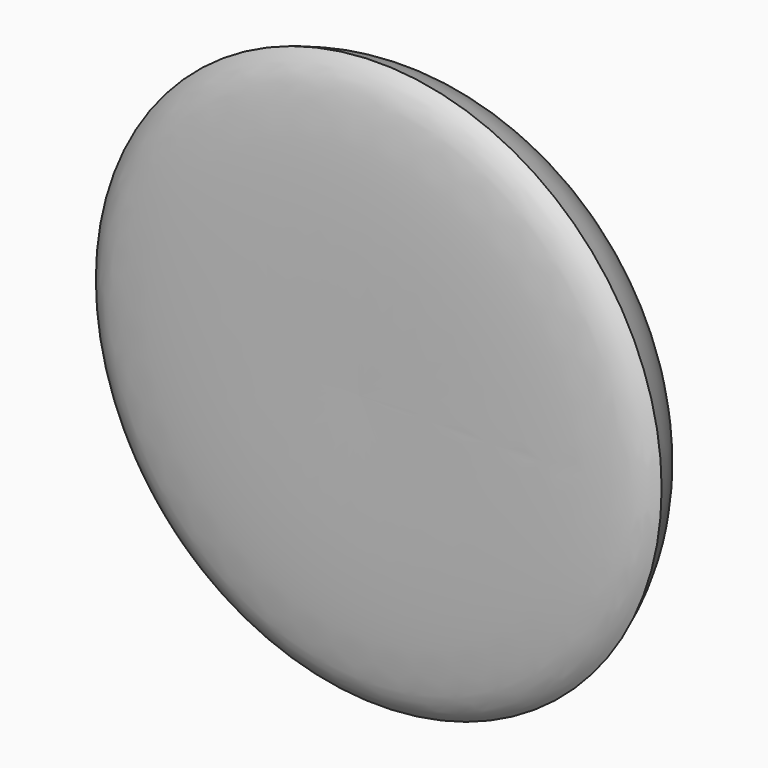
from build123d import *


with BuildPart() as f1:
    # F0 (on Top) → F1 (revolve)
    with BuildSketch(Plane.XY):
        with BuildLine():
            Line((15.7268978655, 31.1336107552), (13.6900357902, 31.1336107552))
            add(Edge.make_bspline(
                [(13.6900357902, 31.1336107552), (17.0608899521, 28.6581278912), (18.4755196748, 24.8073490245), (19.8025538123, 22.0620742536), (19.8939658685, 21.8758244185)],
                knots=[0.4105273485, 0.4105273485, 0.4105273485, 0.4105273485, 0.7637283298, 0.7901702617, 0.7901702617, 0.7901702617, 0.7901702617], degree=3))
            Line((19.8939658685, 21.8758244185), (20.9858976305, 22.5443914533))
            Line((20.9858976305, 22.5443914533), (15.7268978655, 31.1336107552))
        make_face()
        with BuildLine():
            add(Edge.make_bspline(
                [(0, 34.9186398089), (3.0782377239, 35.3925153745), (9.7720743609, 34.0108774401), (13.6900357902, 31.1336107552)],
                knots=[0, 0, 0, 0, 0.4105273485, 0.4105273485, 0.4105273485, 0.4105273485], degree=3))
            Line((0, 34.9186398089), (0, -4.9908086658))
            add(Edge.make_bspline(
                [(57.1451485157, 0), (56.1033313978, -1.0390530249), (51.8189445284, -5.3120726311), (22.3233002337, -5.1292072545), (0, -4.9908086658)],
                knots=[0, 0, 0, 0, 0.243166014, 1, 1, 1, 1], degree=3))
            add(Edge.make_bspline(
                [(21.5834230185, 18.1756056845), (29.4830837428, 17.9200240844), (43.5145810963, 17.4660543787), (54.2259048008, 7.5033575534), (56.2639210027, 2.265022949), (57.1451485157, 0)],
                knots=[0, 0, 0, 0, 0.4223822062, 0.7502417389, 1, 1, 1, 1], degree=3))
            add(Edge.make_bspline(
                [(19.8939658685, 21.8758244185), (20.6193655065, 20.3978403476), (21.2808370146, 19.2320167154), (21.5834230185, 18.1756056845)],
                knots=[0.7901702617, 0.7901702617, 0.7901702617, 0.7901702617, 1, 1, 1, 1], degree=3))
            add(Edge.make_bspline(
                [(13.6900357902, 31.1336107552), (17.0608899521, 28.6581278912), (18.4755196748, 24.8073490245), (19.8025538123, 22.0620742536), (19.8939658685, 21.8758244185)],
                knots=[0.4105273485, 0.4105273485, 0.4105273485, 0.4105273485, 0.7637283298, 0.7901702617, 0.7901702617, 0.7901702617, 0.7901702617], degree=3))
        make_face()
    revolve(axis=Axis((0, 14.9639155716, 0), (0, -1, 0)))


solid = f1.part
